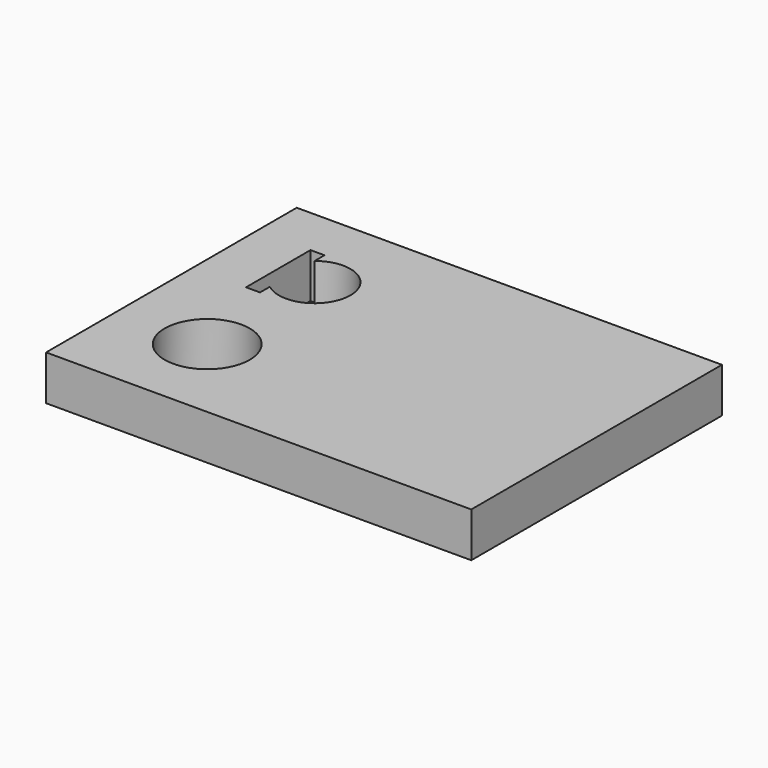
from build123d import *

# Parameters (mm, degrees)
SKETCH_W  = 95
SKETCH_H  = 70
SKETCH_R  = 9.5
PAD_DEPTH = 10


with BuildPart() as part:
    # Sketch → Pad (new body)
    with BuildSketch(Plane.XY):
        with Locations((27.5, -15)):
            Rectangle(SKETCH_W, SKETCH_H)
        with Locations((0, -30)):
            Circle(SKETCH_R, mode=Mode.SUBTRACT)
        with BuildLine():
            ThreePointArc((-5, -6.244998), (8, 0), (-5, 6.244998))
            Line((-5, 9), (-5, 6.244998))
            Line((-8.125, 9), (-5, 9))
            Line((-8.125, -9), (-8.125, 9))
            Line((-5, -9), (-8.125, -9))
            Line((-5, -6.244998), (-5, -9))
        make_face(mode=Mode.SUBTRACT)
    extrude(amount=PAD_DEPTH)


solid = part.part
